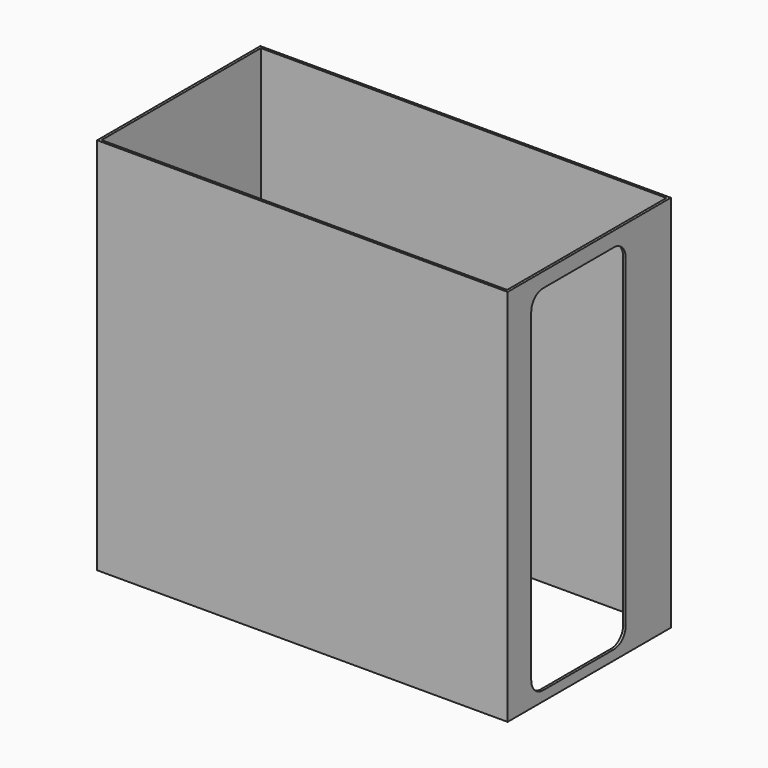
from build123d import *

# Parameters (mm, degrees)
F0_W     = 2120.9
F0_H     = 1054.1
F0_W_2   = 2095.5
F0_H_2   = 1028.7
F1_DEPTH = 1955.8
F3_DEPTH = 12.7


with BuildPart() as f1:
    # F0 (on Top) → F1 (new body)
    with BuildSketch(Plane.XY):
        with Locations((1060.45, 527.05)):
            Rectangle(F0_W, F0_H)
        with Locations((1060.45, 527.05)):
            Rectangle(F0_W_2, F0_H_2, mode=Mode.SUBTRACT)
    extrude(amount=F1_DEPTH)

    # F2 (on face) → F3 (cut, through all)
    with BuildSketch(Plane.YZ.offset(2120.9)):
        with BuildLine():
            ThreePointArc((152.4, 127), (174.718463, 73.118463), (228.6, 50.8))
            Line((228.6, 50.8), (685.8, 50.8))
            ThreePointArc((685.8, 50.8), (739.681537, 73.118463), (762, 127))
            Line((762, 127), (762, 1803.4))
            ThreePointArc((762, 1803.4), (739.681537, 1857.281537), (685.8, 1879.6))
            Line((685.8, 1879.6), (228.6, 1879.6))
            ThreePointArc((228.6, 1879.6), (174.718463, 1857.281537), (152.4, 1803.4))
            Line((152.4, 1803.4), (152.4, 127))
        make_face()
    extrude(amount=-F3_DEPTH, mode=Mode.SUBTRACT)


solid = f1.part
